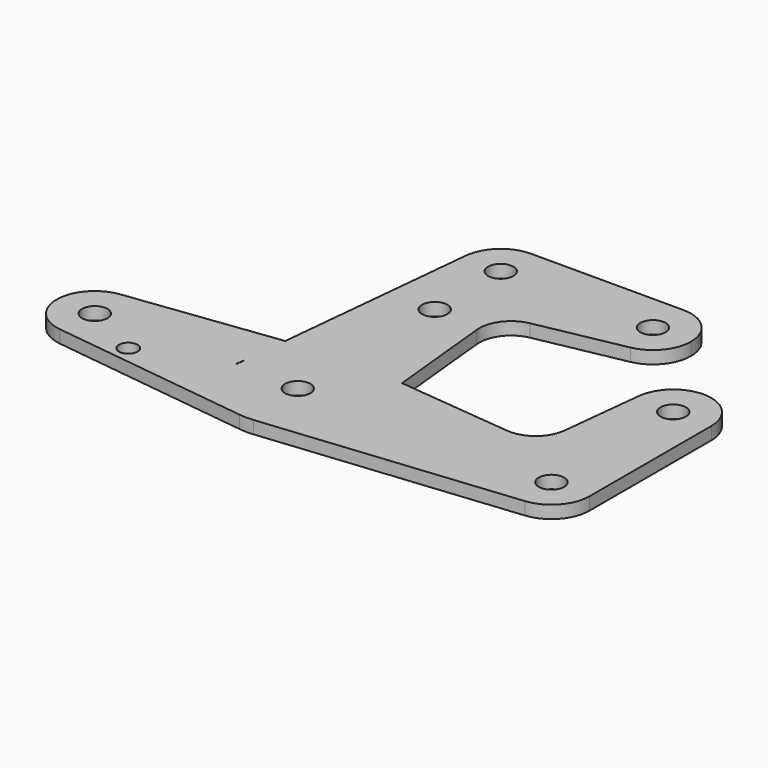
from build123d import *

# Parameters (mm, degrees)
F0_R     = 3.175
F0_R_2   = 2.3471876239
F1_DEPTH = 3.175
F2_DEPTH = 3.175


with BuildPart() as f1:
    # F0 (on Top) → F1 (new body)
    with BuildSketch(Plane.XY):
        with BuildLine():
            ThreePointArc((64.4525, 9.4772553384), (53.975, 0), (64.4525, -9.4772553384))
            ThreePointArc((64.4525, -9.4772553384), (70.563929059, -6.3895642457), (73.025, 0))
            ThreePointArc((73.025, 0), (70.563929059, 6.3895642457), (64.4525, 9.4772553384))
        make_face()
        with Locations((63.5, 0)):
            Circle(F0_R, mode=Mode.SUBTRACT)
        with BuildLine():
            ThreePointArc((15.875, 0), (11.7732150983, -10.6492737428), (1.5875, -15.7954255641))
            Line((1.5875, -15.7954255641), (64.4525, -9.4772553384))
            ThreePointArc((64.4525, -9.4772553384), (53.975, 0), (64.4525, 9.4772553384))
            Line((64.4525, 9.4772553384), (43.1196686861, 11.6212855561))
            Line((43.1196686861, 11.6212855561), (14.4978832286, 14.4978832286))
            Line((14.4978832286, 14.4978832286), (15.7954255641, 1.5875))
            ThreePointArc((15.7954255641, 1.5875), (15.8550939106, 0.7947465541), (15.875, 0))
        make_face()
        with BuildLine():
            Line((14.4978832286, 14.4978832286), (1.5875, 15.7954255641))
            ThreePointArc((1.5875, 15.7954255641), (11.2253201513, 11.2253201513), (15.7954255641, 1.5875))
            Line((15.7954255641, 1.5875), (14.4978832286, 14.4978832286))
        make_face()
        with BuildLine():
            ThreePointArc((-15.875, 0), (-11.90625, -10.5003255158), (-1.984375, -15.7504882737))
            ThreePointArc((-1.984375, -15.7504882737), (-0.1997054867, -15.8737438155), (1.5875, -15.7954255641))
            ThreePointArc((1.5875, -15.7954255641), (11.7732150983, -10.6492737428), (15.875, 0))
            ThreePointArc((15.875, 0), (15.8550939106, 0.7947465541), (15.7954255641, 1.5875))
            ThreePointArc((15.7954255641, 1.5875), (11.2253201513, 11.2253201513), (1.5875, 15.7954255641))
            ThreePointArc((1.5875, 15.7954255641), (-0.1997054867, 15.8737438155), (-1.984375, 15.7504882737))
            ThreePointArc((-1.984375, 15.7504882737), (-10.8108284084, 11.6250425429), (-15.5652161214, 3.1208447723))
            Line((-15.5652161214, 3.1208447723), (-15.875, 0))
        make_face()
        Circle(F0_R, mode=Mode.SUBTRACT)
        with BuildLine():
            Line((-1.984375, 15.7504882737), (-14.4676774298, 14.1777399989))
            Line((-14.4676774298, 14.1777399989), (-15.5652161214, 3.1208447723))
            ThreePointArc((-15.5652161214, 3.1208447723), (-10.8108284084, 11.6250425429), (-1.984375, 15.7504882737))
        make_face()
        with BuildLine():
            ThreePointArc((-51.990625, 9.4502929642), (-44.4998046905, 7.14375), (-41.275, 0))
            ThreePointArc((-41.275, 0), (-44.4998046905, -7.14375), (-51.990625, -9.4502929642))
            Line((-51.990625, -9.4502929642), (-1.984375, -15.7504882737))
            ThreePointArc((-1.984375, -15.7504882737), (-11.90625, -10.5003255158), (-15.875, 0))
            ThreePointArc((-15.875, 0), (-15.7973641936, 1.5680910484), (-15.5652161214, 3.1208447723))
            Line((-15.5652161214, 3.1208447723), (-14.4676774298, 14.1777399989))
            Line((-14.4676774298, 14.1777399989), (-51.990625, 9.4502929642))
        make_face()
        with Locations((-36.5252, -7.3642977134)):
            Circle(F0_R_2, mode=Mode.SUBTRACT)
        with BuildLine():
            ThreePointArc((-51.990625, -9.4502929642), (-44.4998046905, -7.14375), (-41.275, 0))
            ThreePointArc((-41.275, 0), (-44.4998046905, 7.14375), (-51.990625, 9.4502929642))
            ThreePointArc((-51.990625, 9.4502929642), (-60.325, 0), (-51.990625, -9.4502929642))
        make_face()
        with Locations((-50.8, 0)):
            Circle(F0_R, mode=Mode.SUBTRACT)
        with BuildLine():
            Line((43.1196686861, 11.6212855561), (64.4525, 9.4772553384))
            ThreePointArc((64.4525, 9.4772553384), (70.563929059, 6.3895642457), (73.025, 0))
            Line((73.025, 0), (73.025, 38.1))
            ThreePointArc((73.025, 38.1), (62.9871684143, 28.5888155961), (54.0302223066, 39.1241754918))
            Line((54.0302223066, 39.1241754918), (51.8187964167, 18.6767895399))
            ThreePointArc((51.8187964167, 18.6767895399), (48.9226639315, 13.3570202446), (43.1196686861, 11.6212855561))
        make_face()
        with BuildLine():
            ThreePointArc((54.0302223066, 39.1241754918), (62.9871684143, 28.5888155961), (73.025, 38.1))
            ThreePointArc((73.025, 38.1), (64.0128315857, 47.6111844039), (54.0302223066, 39.1241754918))
        make_face()
        with Locations((63.5, 38.1)):
            Circle(F0_R, mode=Mode.SUBTRACT)
    extrude(amount=F1_DEPTH)

    # F0 (on Top) → F2 (join)
    with BuildSketch(Plane.XY):
        with BuildLine():
            ThreePointArc((47.625, 63.5), (44.8351920908, 70.2351920908), (38.1, 73.025))
            ThreePointArc((38.1, 73.025), (28.6191106669, 62.5843786514), (39.922762137, 54.1510341111))
            ThreePointArc((39.922762137, 54.1510341111), (45.4514432037, 57.4434409255), (47.625, 63.5))
        make_face()
        with Locations((38.1, 63.5)):
            Circle(F0_R, mode=Mode.SUBTRACT)
        with BuildLine():
            Line((38.1, 73.025), (0, 73.025))
            ThreePointArc((0, 73.025), (6.3895642457, 70.563929059), (9.4772553384, 64.4525))
            Line((9.4772553384, 64.4525), (11.8025792677, 41.3158190319))
            ThreePointArc((11.8025792677, 41.3158190319), (13.3315402272, 46.8525226233), (18.1915296106, 49.9141090533))
            Line((18.1915296106, 49.9141090533), (39.922762137, 54.1510341111))
            ThreePointArc((39.922762137, 54.1510341111), (28.6191106669, 62.5843786514), (38.1, 73.025))
        make_face()
        with BuildLine():
            ThreePointArc((0, 73.025), (-6.3939027463, 70.5600023138), (-9.4784185161, 64.440854629))
            ThreePointArc((-9.4784185161, 64.440854629), (-0.4710035211, 53.9866524986), (9.525, 63.5))
            ThreePointArc((9.525, 63.5), (9.5130563464, 63.9768479324), (9.4772553384, 64.4525))
            ThreePointArc((9.4772553384, 64.4525), (6.3895642457, 70.563929059), (0, 73.025))
        make_face()
        with Locations((0, 63.5)):
            Circle(F0_R, mode=Mode.SUBTRACT)
        with BuildLine():
            Line((-9.4784185161, 64.440854629), (-14.4676774298, 14.1777399989))
            Line((-14.4676774298, 14.1777399989), (-1.984375, 15.7504882737))
            ThreePointArc((-1.984375, 15.7504882737), (-0.1997054867, 15.8737438155), (1.5875, 15.7954255641))
            Line((1.5875, 15.7954255641), (14.4978832286, 14.4978832286))
            Line((14.4978832286, 14.4978832286), (11.8025792677, 41.3158190319))
            Line((11.8025792677, 41.3158190319), (9.4772553384, 64.4525))
            ThreePointArc((9.4772553384, 64.4525), (9.5130563464, 63.9768479324), (9.525, 63.5))
            ThreePointArc((9.525, 63.5), (-0.4710035211, 53.9866524986), (-9.4784185161, 64.440854629))
        make_face()
        with Locations((0, 42.8498)):
            Circle(F0_R, mode=Mode.SUBTRACT)
        with BuildLine():
            ThreePointArc((-15.875, 0), (-11.90625, -10.5003255158), (-1.984375, -15.7504882737))
            ThreePointArc((-1.984375, -15.7504882737), (-0.1997054867, -15.8737438155), (1.5875, -15.7954255641))
            ThreePointArc((1.5875, -15.7954255641), (11.7732150983, -10.6492737428), (15.875, 0))
            ThreePointArc((15.875, 0), (15.8550939106, 0.7947465541), (15.7954255641, 1.5875))
            ThreePointArc((15.7954255641, 1.5875), (11.2253201513, 11.2253201513), (1.5875, 15.7954255641))
            ThreePointArc((1.5875, 15.7954255641), (-0.1997054867, 15.8737438155), (-1.984375, 15.7504882737))
            ThreePointArc((-1.984375, 15.7504882737), (-10.8108284084, 11.6250425429), (-15.5652161214, 3.1208447723))
            Line((-15.5652161214, 3.1208447723), (-15.875, 0))
        make_face()
        Circle(F0_R, mode=Mode.SUBTRACT)
        with BuildLine():
            Line((14.4978832286, 14.4978832286), (1.5875, 15.7954255641))
            ThreePointArc((1.5875, 15.7954255641), (11.2253201513, 11.2253201513), (15.7954255641, 1.5875))
            Line((15.7954255641, 1.5875), (14.4978832286, 14.4978832286))
        make_face()
        with BuildLine():
            Line((-1.984375, 15.7504882737), (-14.4676774298, 14.1777399989))
            Line((-14.4676774298, 14.1777399989), (-15.5652161214, 3.1208447723))
            ThreePointArc((-15.5652161214, 3.1208447723), (-10.8108284084, 11.6250425429), (-1.984375, 15.7504882737))
        make_face()
    extrude(amount=F2_DEPTH)


solid = f1.part
